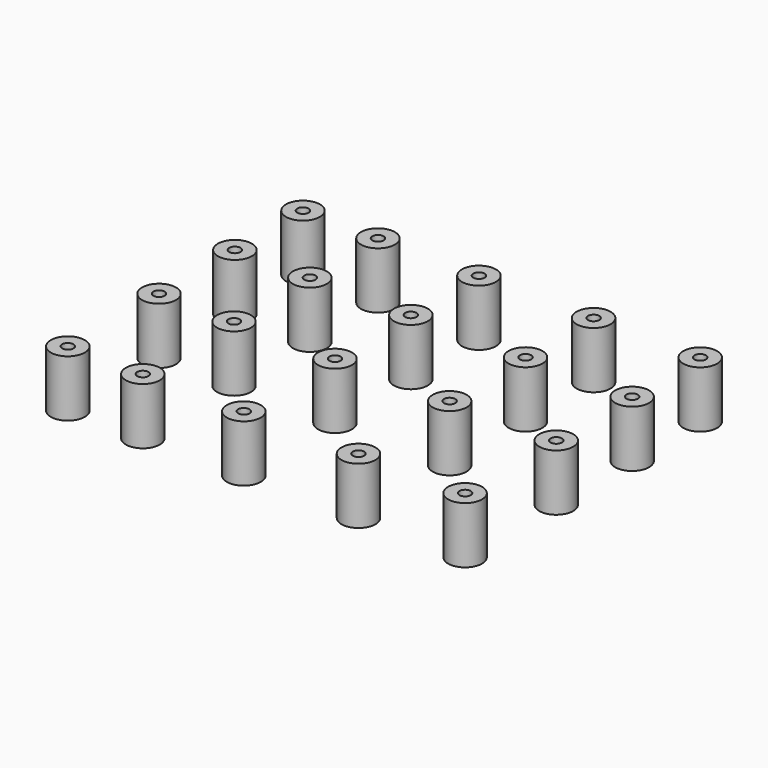
from build123d import *

# Parameters (mm, degrees)
F0_R     = 3
F1_DEPTH = 10
F2_R     = 1
F3_DEPTH = 15


with BuildPart() as f1:
    # F0 (on Top) → F1 (new body)
    with BuildSketch(Plane.XY):
        with Locations((-60.677133, 45.140404)):
            Circle(F0_R)
        with Locations((-60.677133, 13.358966)):
            Circle(F0_R)
        with Locations((-47.430058, -6.77272)):
            Circle(F0_R)
        with Locations((-29.591359, -6.77272)):
            Circle(F0_R)
        with Locations((-47.430058, 13.358966)):
            Circle(F0_R)
        with Locations((-29.591359, 13.358966)):
            Circle(F0_R)
        with Locations((-60.677133, -6.77272)):
            Circle(F0_R)
        with Locations((9.491854, 30.108673)):
            Circle(F0_R)
        with Locations((-9.338897, 13.358966)):
            Circle(F0_R)
        with Locations((-9.338897, -6.77272)):
            Circle(F0_R)
        with Locations((9.491854, -6.77272)):
            Circle(F0_R)
        with Locations((-47.430058, 30.108673)):
            Circle(F0_R)
        with Locations((-9.338897, 45.140404)):
            Circle(F0_R)
        with Locations((-29.591359, 45.140404)):
            Circle(F0_R)
        with Locations((-47.430058, 45.140404)):
            Circle(F0_R)
        with Locations((9.491854, 45.140404)):
            Circle(F0_R)
        with Locations((-29.591359, 30.108673)):
            Circle(F0_R)
        with Locations((-9.338897, 30.108673)):
            Circle(F0_R)
        with Locations((9.491854, 13.358966)):
            Circle(F0_R)
        with Locations((-60.677133, 30.108673)):
            Circle(F0_R)
    extrude(amount=F1_DEPTH)

    # F2 (on Top) → F3 (cut)
    with BuildSketch(Plane.XY):
        with Locations((-60.677133, -6.77272)):
            Circle(F2_R)
        with Locations((-60.677133, 13.358966)):
            Circle(F2_R)
        with Locations((-60.677133, 30.108673)):
            Circle(F2_R)
        with Locations((-60.677133, 45.140404)):
            Circle(F2_R)
        with Locations((-47.430058, 45.140404)):
            Circle(F2_R)
        with Locations((-47.430058, 30.108673)):
            Circle(F2_R)
        with Locations((-47.430058, 13.358966)):
            Circle(F2_R)
        with Locations((-47.430058, -6.77272)):
            Circle(F2_R)
        with Locations((-29.591359, 45.140404)):
            Circle(F2_R)
        with Locations((-29.591359, 30.108673)):
            Circle(F2_R)
        with Locations((-29.591359, 13.358966)):
            Circle(F2_R)
        with Locations((-29.591359, -6.77272)):
            Circle(F2_R)
        with Locations((-9.338897, 45.140404)):
            Circle(F2_R)
        with Locations((-9.338897, 30.108673)):
            Circle(F2_R)
        with Locations((-9.338897, 13.358966)):
            Circle(F2_R)
        with Locations((-9.338897, -6.77272)):
            Circle(F2_R)
        with Locations((9.491854, 45.140404)):
            Circle(F2_R)
        with Locations((9.491854, 30.108673)):
            Circle(F2_R)
        with Locations((9.491854, 13.358966)):
            Circle(F2_R)
        with Locations((9.491854, -6.77272)):
            Circle(F2_R)
    extrude(amount=F3_DEPTH, mode=Mode.SUBTRACT)


solid = f1.part
